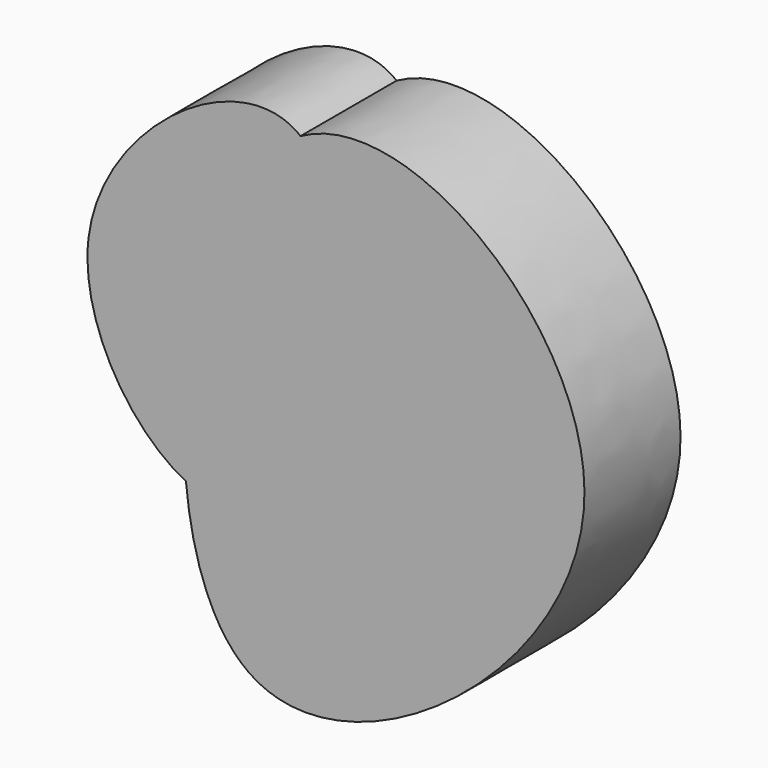
from build123d import *

# Parameters (mm, degrees)
F1_DEPTH = 25.4


with BuildPart() as f1:
    # F0 (on Front) → F1 (new body)
    with BuildSketch(Plane.XZ):
        with BuildLine():
            add(Edge.make_bspline(
                [(10.4722203687, 72.9634687304), (25.0410310258, 61.1580134488), (15.8837077573, -4.2272943308), (-9.0763187095, -1.4982690139), (-13.75867656, 0.8089371653)],
                knots=[0.3210713529, 0.3210713529, 0.3210713529, 0.3210713529, 0.6895407228, 0.7780556229, 0.7780556229, 0.7780556229, 0.7780556229], degree=3))
            add(Edge.make_bspline(
                [(-13.7586765603, 0.8089371652), (-16.2614916949, 28.0295236739), (-7.2533946878, 63.0449931748), (10.4722203687, 72.9634687304)],
                knots=[0.7643627262, 0.7643627262, 0.7643627262, 0.7643627262, 1, 1, 1, 1], degree=3))
        make_face()
        with BuildLine():
            add(Edge.make_bspline(
                [(-13.7586765603, 0.8089371652), (-16.2614916949, 28.0295236739), (-7.2533946878, 63.0449931748), (10.4722203687, 72.9634687304)],
                knots=[0.7643627262, 0.7643627262, 0.7643627262, 0.7643627262, 1, 1, 1, 1], degree=3))
            add(Edge.make_bspline(
                [(-34.3628190458, 39.4650101662), (-31.585256878, 62.4712606678), (-2.2225329237, 83.2503305637), (10.4722203687, 72.9634687304)],
                knots=[0, 0, 0, 0, 0.3210713529, 0.3210713529, 0.3210713529, 0.3210713529], degree=3))
            add(Edge.make_bspline(
                [(-13.75867656, 0.8089371653), (-25.4993325922, 6.594081106), (-36.2828418057, 23.5616669048), (-34.3628190458, 39.4650101662)],
                knots=[0.7780556229, 0.7780556229, 0.7780556229, 0.7780556229, 1, 1, 1, 1], degree=3))
        make_face()
        with BuildLine():
            add(Edge.make_bspline(
                [(10.4722203687, 72.9634687304), (33.6978209237, 85.9594945742), (113.0127416151, 23.4673098763), (4.022471322, -58.1731063218), (-12.4504432583, -13.4193920775), (-13.7586765603, 0.8089371652)],
                knots=[0, 0, 0, 0, 0.3087518927, 0.6411940093, 0.7643627262, 0.7643627262, 0.7643627262, 0.7643627262], degree=3))
            add(Edge.make_bspline(
                [(10.4722203687, 72.9634687304), (25.0410310258, 61.1580134488), (15.8837077573, -4.2272943308), (-9.0763187095, -1.4982690139), (-13.75867656, 0.8089371653)],
                knots=[0.3210713529, 0.3210713529, 0.3210713529, 0.3210713529, 0.6895407228, 0.7780556229, 0.7780556229, 0.7780556229, 0.7780556229], degree=3))
        make_face()
    extrude(amount=F1_DEPTH)


solid = f1.part
